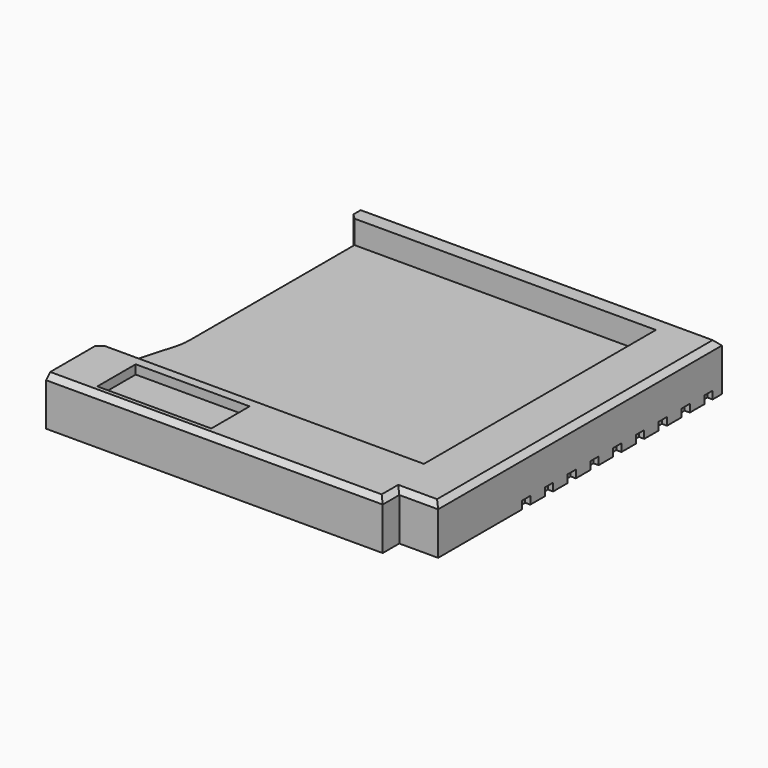
from build123d import *

# Parameters (mm, degrees)
PAD_DEPTH       = 1.85
SKETCH_W        = 4.4
SKETCH_H        = 1.85
POCKET001_DEPTH = 0.4
SKETCH005_W     = 11.2
SKETCH005_H     = 0.9
POCKET002_DEPTH = 12.6
SKETCH006_R     = 0.4
PAD003_DEPTH    = 0.4
SKETCH008_W     = 0.2
SKETCH008_H     = 0.4
POCKET003_DEPTH = 0.3
CHAMFER_SIZE    = 0.1
CHAMFER001_SIZE = 0.2


with BuildPart() as part:
    # Sketch004 → Pad (new body)
    with BuildSketch(Plane.XY.offset(0.05)):
        with BuildLine():
            Line((0.71, 14.65), (0.71, 5.95))
            ThreePointArc((0.634493, 5.41274), (0.691031, 5.67873), (0.71, 5.95))
            Line((0.634493, 5.41274), (0, 3.2))
            Line((0, 3.2), (0, 0.15))
            Line((0, 0.15), (13, 0.15))
            Line((13, 0.15), (13, 0.95))
            Line((13, 0.95), (14.5, 0.95))
            Line((14.5, 0.95), (14.5, 14.65))
            Line((0.71, 14.65), (14.5, 14.65))
        make_face()
    extrude(amount=PAD_DEPTH)

    # Sketch (on Face11 of Pad) → Pocket001 (cut)
    with BuildSketch(Plane.XY.offset(1.95)):
        with Locations((3.9, 1.425)):
            Rectangle(SKETCH_W, SKETCH_H)
    extrude(amount=-POCKET001_DEPTH, mode=Mode.SUBTRACT)

    # Sketch005 (on Face8 of Pocket001) → Pocket002 (cut)
    with BuildSketch(Plane(origin=(-0.05, 0, 0), x_dir=(0, -1, 0), z_dir=(-1, 0, 0))):
        with Locations((-8.3, 1.45)):
            Rectangle(SKETCH005_W, SKETCH005_H)
    extrude(amount=-POCKET002_DEPTH, mode=Mode.SUBTRACT)

    # Sketch006 → Pad003 (join)
    with BuildSketch(Plane.XY.offset(0.05)):
        with Locations((4.01, 4.4)):
            Circle(SKETCH006_R)
        with Locations((4.01, 12.4)):
            Circle(SKETCH006_R)
    extrude(amount=-PAD003_DEPTH)

    # Sketch008 → Pocket003 (cut)
    with BuildSketch(Plane.XY.offset(0.05)):
        with Locations((14.4, 5.2)):
            Rectangle(SKETCH008_W, SKETCH008_H)
        with Locations((14.4, 6.3)):
            Rectangle(SKETCH008_W, SKETCH008_H)
        with Locations((14.4, 7.4)):
            Rectangle(SKETCH008_W, SKETCH008_H)
        with Locations((14.4, 8.5)):
            Rectangle(SKETCH008_W, SKETCH008_H)
        with Locations((14.4, 9.6)):
            Rectangle(SKETCH008_W, SKETCH008_H)
        with Locations((14.4, 10.7)):
            Rectangle(SKETCH008_W, SKETCH008_H)
        with Locations((14.4, 11.8)):
            Rectangle(SKETCH008_W, SKETCH008_H)
        with Locations((14.4, 12.9)):
            Rectangle(SKETCH008_W, SKETCH008_H)
        with Locations((14.4, 14)):
            Rectangle(SKETCH008_W, SKETCH008_H)
    extrude(amount=POCKET003_DEPTH, mode=Mode.SUBTRACT)

    # Chamfer
    chamfer_edges = [part.edges().sort_by_distance(p)[0] for p in [
        (3.61, 12.4, -0.35),
        (3.61, 4.4, -0.35),
    ]]
    chamfer(chamfer_edges, length=CHAMFER_SIZE)

    # Chamfer001
    chamfer001_edges = [part.edges().sort_by_distance(p)[0] for p in [
        (7.605, 14.65, 1.9),
        (14.5, 7.8, 1.9),
        (13.75, 0.95, 1.9),
        (13, 0.55, 1.9),
        (6.5, 0.15, 1.9),
        (0.71, 13.9, 1.45),
        (0.71, 9.925, 1),
        (0.691031, 5.67873, 1),
        (0.317247, 4.30637, 1),
        (0, 2.95, 1),
        (0, 2.7, 1.45),
    ]]
    chamfer(chamfer001_edges, length=CHAMFER001_SIZE)


solid = part.part
